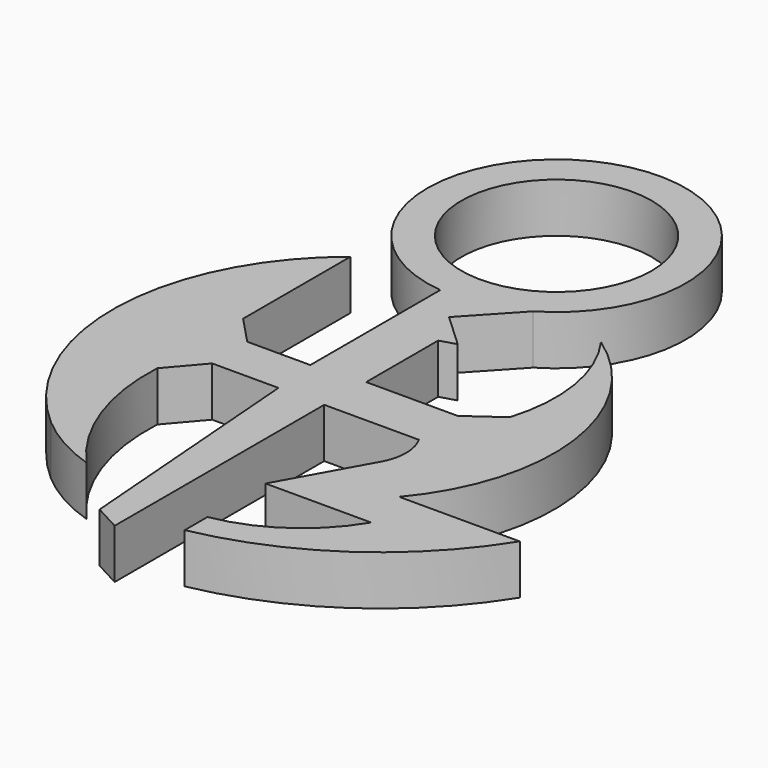
from build123d import *

# Parameters (mm, degrees)
F0_R     = 0.4605332707
F1_DEPTH = 0.24


with BuildPart() as f1:
    # F0 (on Top) → F1 (new body)
    with BuildSketch(Plane.XY):
        with BuildLine():
            Line((-0.7643489372, 0.3592439784), (-0.7643489372, 1.0089406087))
            ThreePointArc((-0.7643489372, 1.0089406087), (-1.1966956294, 0.1350621286), (-0.8025663648, -0.7567054325))
            ThreePointArc((-0.8025663648, -0.7567054325), (-0.6546896446, -0.8603189134), (-0.4891832948, -0.9325056572))
            ThreePointArc((-0.4891832948, -0.9325056572), (-0.7040905479, -0.574070654), (-0.7643489372, -0.1605132754))
            Line((-0.7643489372, -0.1605132754), (-0.6267661401, 0))
            Line((-0.6267661401, 0), (-0.3057395653, 0))
            Line((-0.3057395653, 0), (-0.2120183643, -1.2000277949))
            Line((-0.2120183643, -1.2000277949), (-0.084078348, -1.2688192897))
            Line((-0.084078348, -1.2688192897), (-0.084078348, 0))
            Line((-0.084078348, 0), (0.3745309398, 0))
            ThreePointArc((0.3745309398, 0), (0.4042403425, -0.114652343), (0.3745309398, -0.229304686))
            Line((0.3745309398, -0.229304686), (0.1452262959, -0.6420531015))
            Line((0.1452262959, -0.6420531015), (0.6567916508, -0.6420531015))
            ThreePointArc((0.6567916508, -0.6420531015), (0.4392792269, -0.8735351191), (0.1452262899, -0.9936535991))
            Line((0.1452262899, -0.9936535991), (0.1452262899, -1.1312363963))
            ThreePointArc((0.1452262899, -1.1312363963), (0.7433812619, -0.8798838586), (1.192384507, -0.4115212271))
            Line((1.192384507, -0.4115212271), (0.6082840734, -0.4115212271))
            ThreePointArc((0.6082840734, -0.4115212271), (0.8346566689, 0.3648645656), (0.4127484396, 1.0548014448))
            ThreePointArc((0.4127484396, 1.0548014448), (0.5518993592, 0.7205103086), (0.5274007705, 0.3592439784))
            Line((0.5274007705, 0.3592439784), (0.3668875072, 0.2445916474))
            Line((0.3668875072, 0.2445916474), (-0.0764349154, 0.2445916474))
            Line((-0.0764349154, 0.2445916474), (-0.0764349154, 0.6802705291))
            Line((-0.0764349154, 0.6802705291), (0, 0.7032009953))
            Line((0, 0.7032009953), (-0.1643350278, 0.856070802))
            Line((-0.1643350278, 0.856070802), (0.0548449436, 1.0916892505))
            ThreePointArc((0.0548449436, 1.0916892505), (-0.3956605057, 2.2416468822), (-0.3286700555, 1.0084113029))
            Line((-0.3286700555, 1.0084113029), (-0.3286700555, 0.2216611812))
            Line((-0.3286700555, 0.2216611812), (-0.6344095967, 0.2216611812))
            Line((-0.6344095967, 0.2216611812), (-0.7643489372, 0.3592439784))
        make_face()
        with BuildLine():
            ThreePointArc((-0.3280285302, 1.0083438409), (-0.3283493015, 1.0083774892), (-0.3286700555, 1.0084113029))
            Line((-0.3286700555, 1.0084113029), (-0.3286700555, 1.0089406087))
            Line((-0.3286700555, 1.0089406087), (-0.3280285302, 1.0083438409))
        make_face(mode=Mode.SUBTRACT)
        with Locations((-0.2629361581, 1.6304193065)):
            Circle(F0_R, mode=Mode.SUBTRACT)
        with BuildLine():
            Line((-0.3286700555, 1.0089406087), (-0.3286700555, 1.0084113029))
            ThreePointArc((-0.3286700555, 1.0084113029), (-0.3283493015, 1.0083774892), (-0.3280285302, 1.0083438409))
            Line((-0.3280285302, 1.0083438409), (-0.3286700555, 1.0089406087))
        make_face()
    extrude(amount=F1_DEPTH)


solid = f1.part
